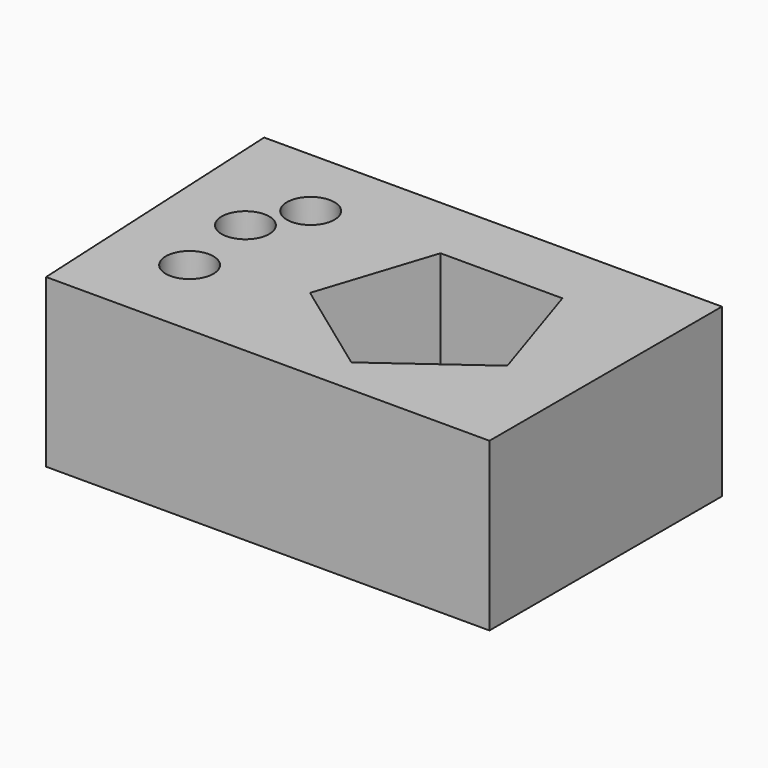
from build123d import *

# Parameters (mm, degrees)
F1_DEPTH       = 101.6
F5_DEPTH       = 50
F7_D           = 9
F7_DEPTH       = 12
F7_CBORE_D     = 14.25
F7_CBORE_DEPTH = 8
F7_TIP         = 2.7038727856


with BuildPart() as f1:
    # F0 (on Top) → F1 (new body)
    with BuildSketch(Plane.XY):
        Polygon((-109.12142694, 45.1170913875), (-104.8183739185, -41.8617390096), (27.9122088104, -41.8617390096), (27.9122088104, 45.1170913875), align=None)
    extrude(amount=F1_DEPTH)

    # F2 (on face) → F3 (revolve)
    with BuildSketch(Plane.XZ.offset(41.8617390096)):
        Polygon((-104.8183739185, 0), (-104.8183739185, 50.8), (-134.8183739185, 50.8), (-107.7620375156, 0), align=None)
    revolve(axis=Axis((27.9122088104, -41.8617390096, 50.8), (0, 0, -1)))

    # F4 (on face) → F5 (intersect)
    with BuildSketch(Plane.XY.offset(101.6)):
        Polygon((27.9122088104, 45.1170913875), (-109.12142694, 45.1170913875), (-104.8183739185, -41.8617390096), (27.9122088104, -41.8617390096), align=None)
        Polygon((-51.6147029857, -9.5938752115), (-40.3364262624, 25.1170913875), (-3.8391561167, 25.1170913875), (7.4391206066, -9.5938752115), (-22.0877911896, -31.046432352), align=None, mode=Mode.SUBTRACT)
    extrude(amount=-F5_DEPTH, mode=Mode.INTERSECT)

    # F7
    with Locations(Plane.XY.offset(101.6)):
        with Locations((-82.40018785, -16.1850638688), (-84.7880318761, 7.7034095302), (-77.399738133, 22.8778515011)):
            CounterBoreHole(F7_D / 2, F7_CBORE_D / 2, F7_CBORE_DEPTH, depth=F7_DEPTH)
            with Locations((0, 0, -(F7_DEPTH + F7_TIP / 2))):  # 118° drill point
                Cone(0, F7_D / 2, F7_TIP, mode=Mode.SUBTRACT)


solid = f1.part
